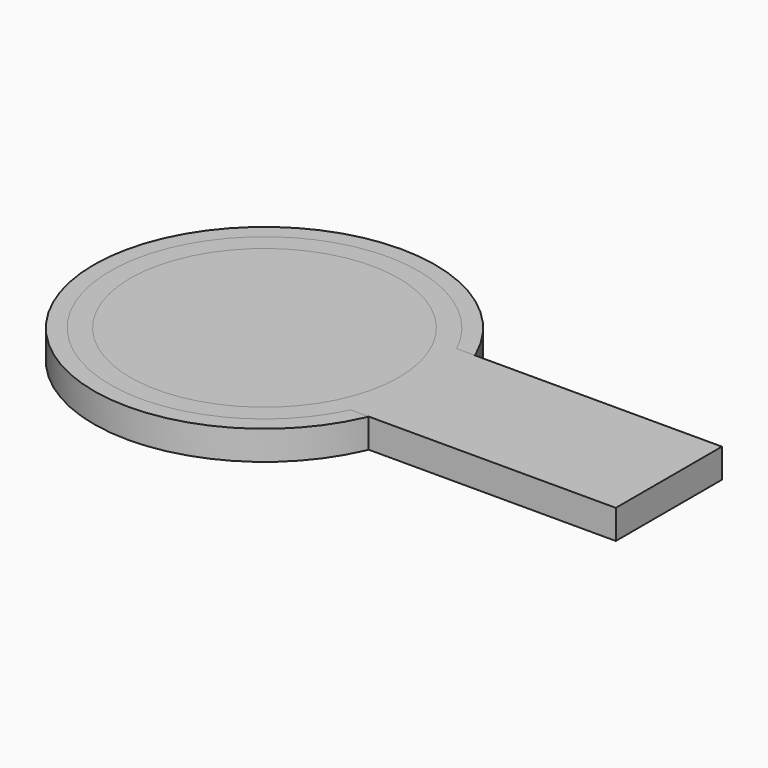
from build123d import *

# Parameters (mm, degrees)
F0_R     = 12.875
F1_DEPTH = 2.2
F2_R     = 11.625
F3_DEPTH = 2.2
F4_R     = 10.125
F5_DEPTH = 2.2


with BuildPart() as f1:
    # F0 (on Top) → F1 (new body)
    with BuildSketch(Plane.XY):
        Circle(F0_R)
    extrude(amount=F1_DEPTH)


with BuildPart() as f3:
    # F2 (on Top) → F3 (new body)
    with BuildSketch(Plane.XY):
        Circle(F2_R)
    extrude(amount=F3_DEPTH)


with BuildPart() as f5:
    # F4 (on Top) → F5 (new body)
    with BuildSketch(Plane.XY):
        with BuildLine():
            Line((30.49479, 5), (10.49479, 5))
            ThreePointArc((10.49479, 5), (-11.625, 0), (10.49479, -5))
            Line((10.49479, -5), (30.49479, -5))
            Line((30.49479, -5), (30.49479, 5))
        make_face()
        Circle(F4_R, mode=Mode.SUBTRACT)
    extrude(amount=F5_DEPTH)


solid = Compound([f1.part, f3.part, f5.part])
